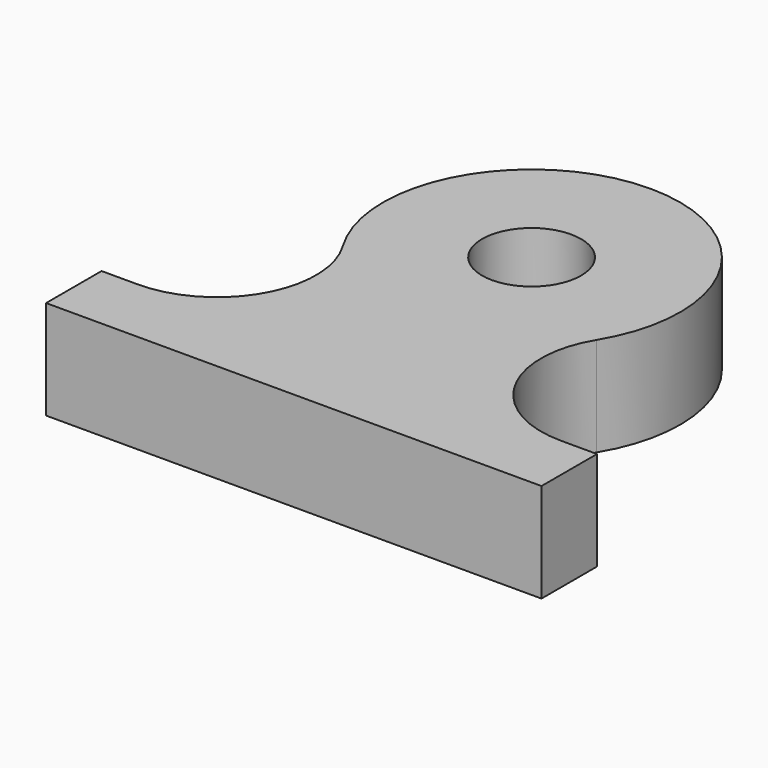
from build123d import *

# Parameters (mm, degrees)
F1_DEPTH = 10


with BuildPart() as f1:
    # F0 (on Top) → F1 (new body)
    with BuildSketch(Plane.XY):
        with BuildLine():
            ThreePointArc((21.354157, 3.5), (12.636359, 8.601021), (12.812494, 18.7))
            ThreePointArc((12.812494, 18.7), (0, 41.5), (-12.812494, 18.7))
            ThreePointArc((-12.812494, 18.7), (-12.636359, 8.601021), (-21.354157, 3.5))
            Line((-21.354157, 3.5), (-25, 3.5))
            Line((-25, 3.5), (-25, -3.5))
            Line((-25, -3.5), (0, -3.5))
            Line((0, -3.5), (25, -3.5))
            Line((25, -3.5), (25, 3.5))
            Line((25, 3.5), (21.354157, 3.5))
        make_face()
        with BuildLine():
            ThreePointArc((5, 26.5), (3.535534, 22.964466), (0, 21.5))
            ThreePointArc((0, 21.5), (-3.535534, 30.035534), (5, 26.5))
        make_face(mode=Mode.SUBTRACT)
    extrude(amount=F1_DEPTH)


solid = f1.part
